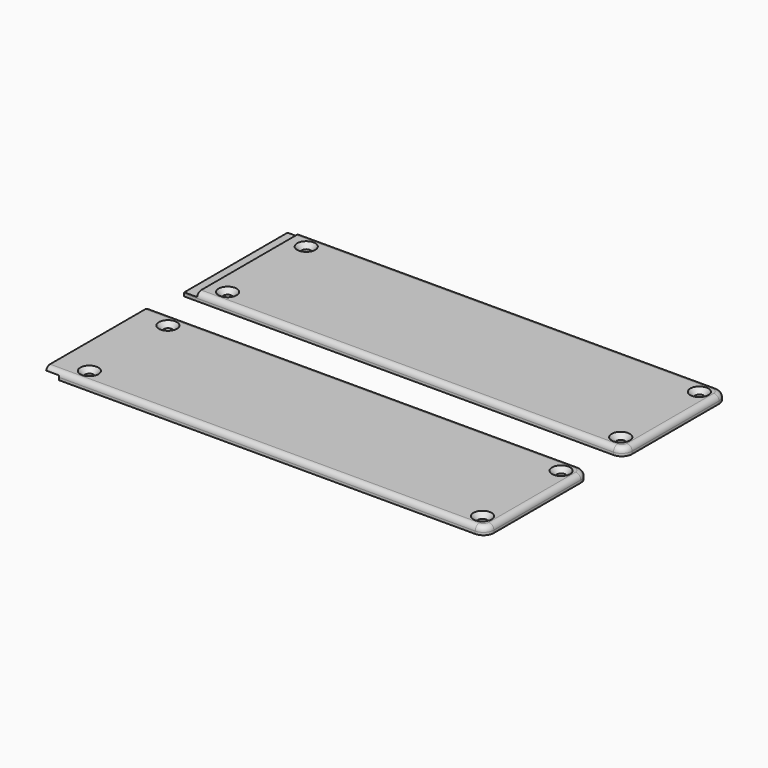
from build123d import *

# Parameters (mm, degrees)
F0_W     = 215.9
F0_H     = 63.5
F0_R     = 2.159
F1_DEPTH = 3.81
F2_W     = 6.35
F2_H     = 63.5
F3_DEPTH = 2.032
F4_SIZE  = 2.286
F5_W     = 215.9
F5_H     = 63.5
F5_R     = 2.159
F6_DEPTH = 3.81
F7_SIZE  = 2.286
F8_W     = 6.35
F8_H     = 63.5
F9_DEPTH = 2.032
F10_R    = 5.08
F10_2_R  = 5.08
F11_R    = 2.54
F11_2_R  = 2.54


with BuildPart() as f1:
    # F0 (on Top) → F1 (new body)
    with BuildSketch(Plane.XY):
        Rectangle(F0_W, F0_H)
        with Locations((-92.71, -24.13)):
            Circle(F0_R, mode=Mode.SUBTRACT)
        with Locations((100.33, -24.13)):
            Circle(F0_R, mode=Mode.SUBTRACT)
        with Locations((-92.71, 24.13)):
            Circle(F0_R, mode=Mode.SUBTRACT)
        with Locations((100.33, 24.13)):
            Circle(F0_R, mode=Mode.SUBTRACT)
    extrude(amount=F1_DEPTH)

    # F2 (on face) → F3 (cut)
    with BuildSketch(Plane.XY.offset(3.81)):
        with Locations((-104.775, 0)):
            Rectangle(F2_W, F2_H)
    extrude(amount=-F3_DEPTH, mode=Mode.SUBTRACT)

    # F4
    f4_edges = [f1.edges().sort_by_distance(p)[0] for p in [
        (-94.869, 24.13, 3.81),
        (-94.869, -24.13, 3.81),
        (98.171, 24.13, 3.81),
        (98.171, -24.13, 3.81),
    ]]
    chamfer(f4_edges, length=F4_SIZE)

    # F10
    f10_edges = [f1.edges().sort_by_distance(p)[0] for p in [
        (107.95, 31.75, 1.905),
        (107.95, -31.75, 1.905),
    ]]
    fillet(f10_edges, radius=F10_R)

    # F11
    f11_edges = [f1.edges().sort_by_distance(p)[0] for p in [
        (0.635, 31.75, 3.81),
    ]]
    fillet(f11_edges, radius=F11_R)


with BuildPart() as f6:
    # F5 (on Top) → F6 (new body)
    with BuildSketch(Plane.XY):
        with Locations((-0.451418, -84.295818)):
            Rectangle(F5_W, F5_H)
        with Locations((-93.161418, -108.425818)):
            Circle(F5_R, mode=Mode.SUBTRACT)
        with Locations((99.878582, -108.425818)):
            Circle(F5_R, mode=Mode.SUBTRACT)
        with Locations((-93.161418, -60.165818)):
            Circle(F5_R, mode=Mode.SUBTRACT)
        with Locations((99.878582, -60.165818)):
            Circle(F5_R, mode=Mode.SUBTRACT)
    extrude(amount=F6_DEPTH)

    # F7
    f7_edges = [f6.edges().sort_by_distance(p)[0] for p in [
        (-95.320418, -60.165818, 3.81),
        (97.719582, -60.165818, 3.81),
        (97.719582, -108.425818, 3.81),
        (-95.320418, -108.425818, 3.81),
    ]]
    chamfer(f7_edges, length=F7_SIZE)

    # F8 (on face) → F9 (cut)
    with BuildSketch(Plane(origin=(0, 0, 0), x_dir=(1, 0, 0), z_dir=(0, 0, -1))):
        with Locations((-105.226418, 84.295818)):
            Rectangle(F8_W, F8_H)
    extrude(amount=-F9_DEPTH, mode=Mode.SUBTRACT)

    # F10#2
    f10_2_edges = [f6.edges().sort_by_distance(p)[0] for p in [
        (107.498582, -116.045818, 1.905),
        (107.498582, -52.545818, 1.905),
    ]]
    fillet(f10_2_edges, radius=F10_2_R)

    # F11#2
    f11_2_edges = [f6.edges().sort_by_distance(p)[0] for p in [
        (-2.991418, -52.545818, 3.81),
    ]]
    fillet(f11_2_edges, radius=F11_2_R)


solid = Compound([f1.part, f6.part])
